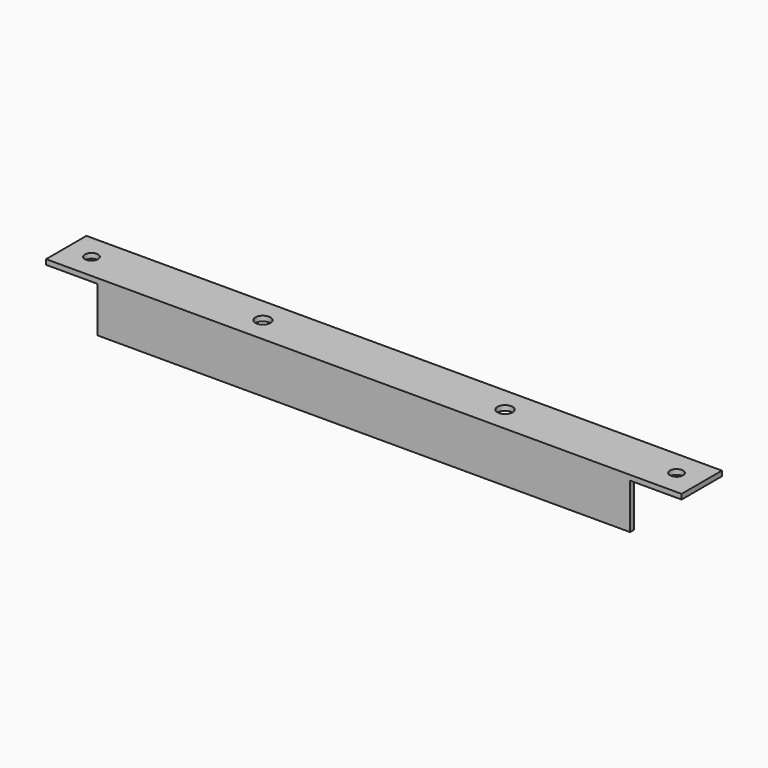
from build123d import *

# Parameters (mm, degrees)
F0_R     = 6.5
F0_R_2   = 7.5
F1_DEPTH = 5
F2_W     = 528
F2_H     = 45
F3_DEPTH = 5


with BuildPart() as f1:
    # F0 (on Top) → F1 (new body)
    with BuildSketch(Plane.XY):
        Polygon((298.003521, 25), (-331.996479, 25), (-331.996479, -25), (-280.996479, -25), (247.003521, -25), (298.003521, -25), align=None)
        with Locations((-306.996479, 0)):
            Circle(F0_R, mode=Mode.SUBTRACT)
        with Locations((-136.996479, 0)):
            Circle(F0_R_2, mode=Mode.SUBTRACT)
        with Locations((103.003521, 0)):
            Circle(F0_R_2, mode=Mode.SUBTRACT)
        with Locations((273.003521, 0)):
            Circle(F0_R, mode=Mode.SUBTRACT)
    extrude(amount=F1_DEPTH)

    # F2 (on face) → F3 (join)
    with BuildSketch(Plane.XZ.offset(25)):
        with Locations((-16.996479, -22.5)):
            Rectangle(F2_W, F2_H)
    extrude(amount=-F3_DEPTH)


solid = f1.part
